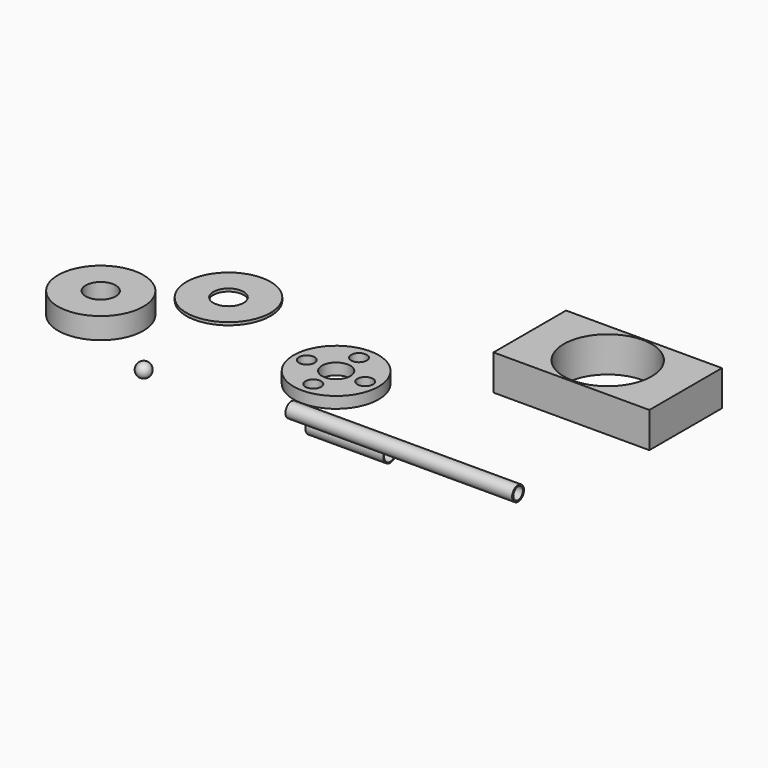
from build123d import *

# Parameters (mm, degrees)
F0_R      = 38.1
F0_R_2    = 6.985
F0_R_3    = 12.7
F1_DEPTH  = 10.16
F3_DEPTH  = 2.54
F6_R      = 6.629655
F6_R_2    = 5.364271
F7_DEPTH  = 203.2
F8_R      = 38.259047
F8_R_2    = 13.4193
F9_DEPTH  = 19.05
F10_W     = 139.7
F10_H     = 81.28
F10_R     = 39.37
F11_DEPTH = 31.75
F12_R     = 7.62
F12_R_2   = 6.731
F13_DEPTH = 69.85


with BuildPart() as f1:
    # F0 (on Top) → F1 (new body)
    with BuildSketch(Plane.XY):
        Circle(F0_R)
        with Locations((0, -25.597349)):
            Circle(F0_R_2, mode=Mode.SUBTRACT)
        with Locations((-26.328702, 0)):
            Circle(F0_R_2, mode=Mode.SUBTRACT)
        Circle(F0_R_3, mode=Mode.SUBTRACT)
        with Locations((26.03616, 0)):
            Circle(F0_R_2, mode=Mode.SUBTRACT)
        with Locations((0, 25.597349)):
            Circle(F0_R_2, mode=Mode.SUBTRACT)
    extrude(amount=F1_DEPTH)


with BuildPart() as f3:
    # F2 (on Top) → F3 (new body)
    with BuildSketch(Plane.XY):
        with BuildLine():
            ThreePointArc((-175.175314, 48.804403), (-136.302068, 13.707953), (-99.904105, 51.365334))
            ThreePointArc((-99.904105, 51.365334), (-99.911622, 52.117931), (-99.934169, 52.870227))
            Line((-99.934169, 52.870227), (-124.058357, 51.688002))
            ThreePointArc((-124.058357, 51.688002), (-124.055471, 51.526679), (-124.054508, 51.365334))
            ThreePointArc((-124.054508, 51.365334), (-136.962644, 37.850811), (-151.055098, 50.125379))
            Line((-151.055098, 50.125379), (-175.175314, 48.804403))
        make_face()
        with BuildLine():
            Line((-124.058357, 51.688002), (-99.934169, 52.870227))
            ThreePointArc((-99.934169, 52.870227), (-99.946299, 53.147987), (-99.960477, 53.425651))
            Line((-99.960477, 53.425651), (-124.074744, 52.105001))
            ThreePointArc((-124.074744, 52.105001), (-124.064942, 51.896565), (-124.058357, 51.688002))
        make_face()
        with BuildLine():
            ThreePointArc((-175.206056, 49.304727), (-175.191517, 49.054514), (-175.175314, 48.804403))
            Line((-175.175314, 48.804403), (-151.055098, 50.125379))
            ThreePointArc((-151.055098, 50.125379), (-151.07576, 50.375208), (-151.091789, 50.625377))
            Line((-151.091789, 50.625377), (-175.206056, 49.304727))
        make_face()
        with BuildLine():
            Line((-124.074744, 52.105001), (-99.960477, 53.425651))
            ThreePointArc((-99.960477, 53.425651), (-139.643737, 88.988124), (-175.206056, 49.304727))
            Line((-175.206056, 49.304727), (-151.091789, 50.625377))
            ThreePointArc((-151.091789, 50.625377), (-138.323087, 64.873857), (-124.074744, 52.105001))
        make_face()
    extrude(amount=F3_DEPTH)


with BuildPart() as f5:
    # F4 (on Top) → F5 (revolve)
    with BuildSketch(Plane.XY):
        with BuildLine():
            Line((-118.475139, -61.159487), (-118.475139, -73.859487))
            ThreePointArc((-118.475139, -73.859487), (-112.125139, -67.509487), (-118.475139, -61.159487))
        make_face()
    revolve(axis=Axis((-118.475139, -67.509487, 0), (0, 1, 0)))


with BuildPart() as f7:
    # F6 (on Right) → F7 (new body)
    with BuildSketch(Plane.YZ):
        with Locations((-50.183225, 0)):
            Circle(F6_R)
        with Locations((-50.183225, 0)):
            Circle(F6_R_2, mode=Mode.SUBTRACT)
    extrude(amount=F7_DEPTH)


with BuildPart() as f9:
    # F8 (on Top) → F9 (new body)
    with BuildSketch(Plane.XY):
        with Locations((-193.731189, -21.547653)):
            Circle(F8_R)
        with Locations((-193.731189, -21.547653)):
            Circle(F8_R_2, mode=Mode.SUBTRACT)
    extrude(amount=F9_DEPTH)


with BuildPart() as f11:
    # F10 (on Top) → F11 (new body)
    with BuildSketch(Plane.XY):
        with Locations((164.259662, 98.907554)):
            Rectangle(F10_W, F10_H)
        with Locations((164.259662, 98.907554)):
            Circle(F10_R, mode=Mode.SUBTRACT)
    extrude(amount=F11_DEPTH)


with BuildPart() as f13:
    # F12 (on Right) → F13 (new body)
    with BuildSketch(Plane.YZ):
        with Locations((-26.860751, -21.203257)):
            Circle(F12_R)
        with Locations((-26.860751, -21.203257)):
            Circle(F12_R_2, mode=Mode.SUBTRACT)
    extrude(amount=F13_DEPTH)


solid = Compound([f1.part, f3.part, f5.part, f7.part, f9.part, f11.part, f13.part])
